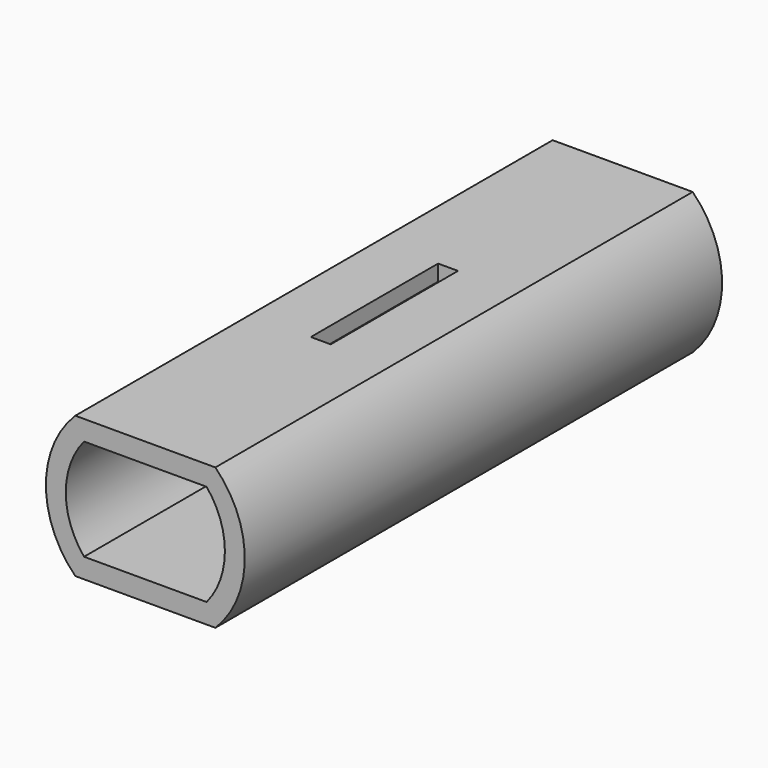
from build123d import *

# Parameters (mm, degrees)
F1_DEPTH = 300
F3_DEPTH = 300
F4_W     = 10
F4_H     = 80
F5_DEPTH = 8
F6_W     = 5
F6_H     = 15
F7_DEPTH = 5


with BuildPart() as f1:
    # F0 (on Front) → F1 (new body)
    with BuildSketch(Plane.XZ):
        with BuildLine():
            Line((35.210084, 35.5), (-35.210084, 35.5))
            ThreePointArc((-35.210084, 35.5), (-50, 0), (-35.210084, -35.5))
            Line((-35.210084, -35.5), (35.210084, -35.5))
            ThreePointArc((35.210084, -35.5), (50, 0), (35.210084, 35.5))
        make_face()
    extrude(amount=F1_DEPTH)

    # F2 (on face) → F3 (cut)
    with BuildSketch(Plane.XZ.offset(300)):
        with BuildLine():
            Line((30.818014, 25.5), (-30.818014, 25.5))
            ThreePointArc((-30.818014, 25.5), (-40, 0), (-30.818014, -25.5))
            Line((-30.818014, -25.5), (30.818014, -25.5))
            ThreePointArc((30.818014, -25.5), (40, 0), (30.818014, 25.5))
        make_face()
    extrude(amount=-F3_DEPTH, mode=Mode.SUBTRACT)

    # F4 (on face) → F5 (cut)
    with BuildSketch(Plane.XY.offset(35.5)):
        with Locations((0.210084, -150)):
            Rectangle(F4_W, F4_H)
    extrude(amount=-F5_DEPTH, mode=Mode.SUBTRACT)

    # F6 (on face) → F7 (cut)
    with BuildSketch(Plane.XY.offset(27.5)):
        with Locations((0.210084, -127.5)):
            Rectangle(F6_W, F6_H)
        with Locations((0.210084, -172.5)):
            Rectangle(F6_W, F6_H)
    extrude(amount=-F7_DEPTH, mode=Mode.SUBTRACT)


solid = f1.part
